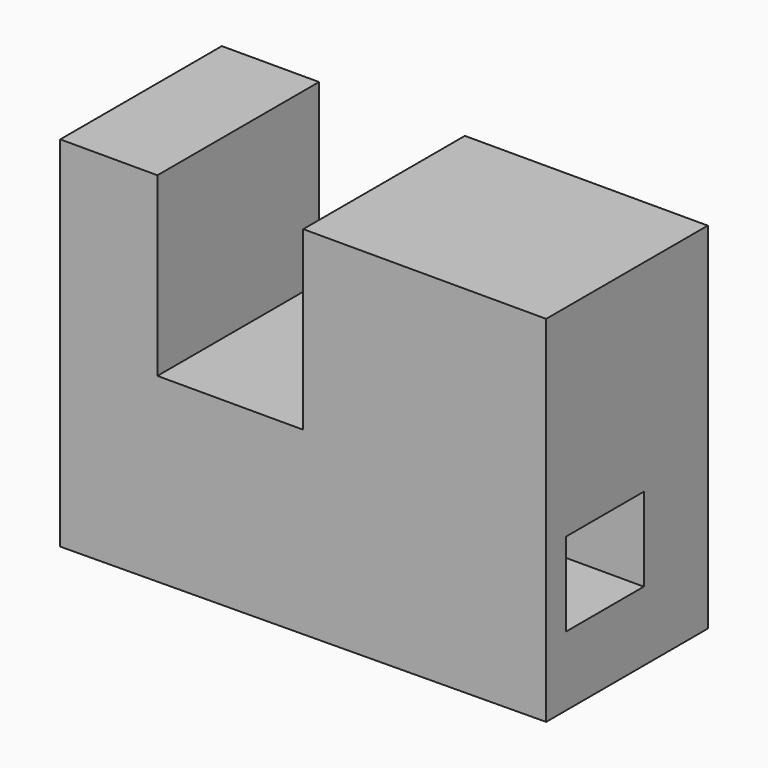
from build123d import *

# Parameters (mm, degrees)
F1_DEPTH = 63.5
F2_W     = 30.668144
F2_H     = 26.286978
F3_DEPTH = 152.752304


with BuildPart() as f1:
    # F0 (on Front) → F1 (new body)
    with BuildSketch(Plane.XZ):
        Polygon((-45.834564, 55.521302), (-76.388769, 55.521302), (-76.388769, -57.187561), (76.362535, -56.020156), (76.362535, 55.521302), (0, 55.521302), (0, 0), (-45.834564, 0), align=None)
    extrude(amount=F1_DEPTH)

    # F2 (on face) → F3 (cut, through all)
    with BuildSketch(Plane.YZ.offset(76.362535)):
        with Locations((-40.449882, -21.044945)):
            Rectangle(F2_W, F2_H)
    extrude(amount=-F3_DEPTH, mode=Mode.SUBTRACT)


solid = f1.part
